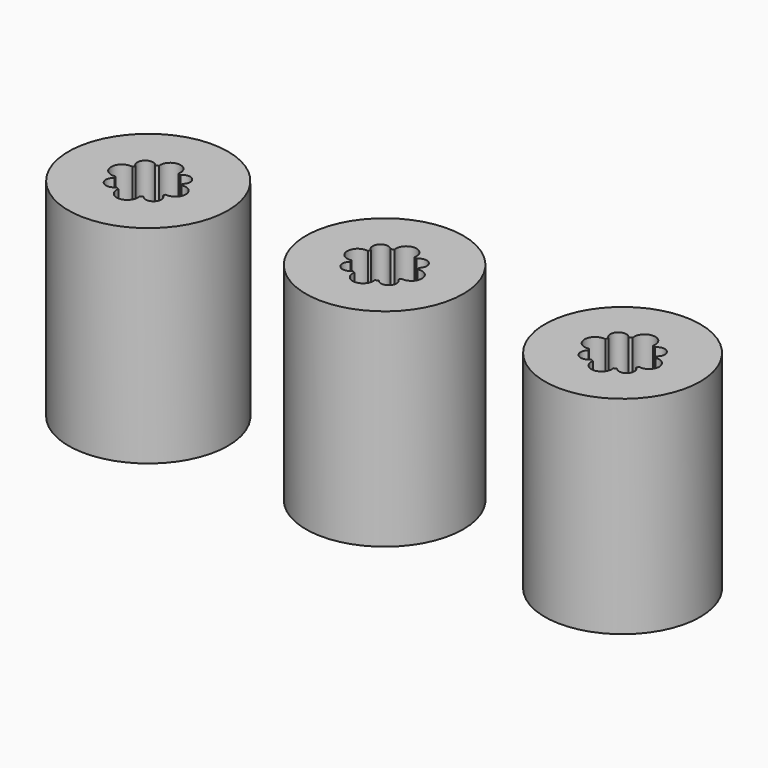
from build123d import *

# Parameters (mm, degrees)
F0_R     = 7.6
F0_R_2   = 7.5
F0_R_3   = 7.7
F1_DEPTH = 20


with BuildPart() as f1:
    # F0 (on Top) → F1 (new body)
    with BuildSketch(Plane.XY):
        Circle(F0_R)
        with BuildLine():
            ThreePointArc((2.299572, 1.213247), (2.356167, 1.099308), (2.40712, 0.982738))
            ThreePointArc((2.40712, 0.982738), (3.601487, 0), (2.40712, -0.982738))
            ThreePointArc((2.40712, -0.982738), (2.356167, -1.099308), (2.299572, -1.213247))
            ThreePointArc((2.299572, -1.213247), (2.393171, -2.346023), (1.258756, -2.27498))
            ThreePointArc((1.258756, -2.27498), (1.122092, -2.345402), (0.981503, -2.407624))
            ThreePointArc((0.981503, -2.407624), (0, -3.600179), (-0.981503, -2.407624))
            ThreePointArc((-0.981503, -2.407624), (-1.122092, -2.345402), (-1.258756, -2.27498))
            ThreePointArc((-1.258756, -2.27498), (-2.393171, -2.346023), (-2.299572, -1.213247))
            ThreePointArc((-2.299572, -1.213247), (-2.356167, -1.099308), (-2.40712, -0.982738))
            ThreePointArc((-2.40712, -0.982738), (-3.601487, 0), (-2.40712, 0.982738))
            ThreePointArc((-2.40712, 0.982738), (-2.356167, 1.099308), (-2.299572, 1.213247))
            ThreePointArc((-2.299572, 1.213247), (-2.393171, 2.346023), (-1.258756, 2.27498))
            ThreePointArc((-1.258756, 2.27498), (-1.122092, 2.345402), (-0.981503, 2.407624))
            ThreePointArc((-0.981503, 2.407624), (0, 3.600179), (0.981503, 2.407624))
            ThreePointArc((0.981503, 2.407624), (1.122092, 2.345402), (1.258756, 2.27498))
            ThreePointArc((1.258756, 2.27498), (2.393171, 2.346023), (2.299572, 1.213247))
        make_face(mode=Mode.SUBTRACT)
        with Locations((22.981999, -0.019552)):
            Circle(F0_R_2)
        with BuildLine():
            ThreePointArc((25.315564, 1.126953), (25.369864, 1.009088), (25.418215, 0.888661))
            ThreePointArc((25.418215, 0.888661), (26.558661, -0.095983), (25.377193, -1.031009))
            ThreePointArc((25.377193, -1.031009), (25.326325, -1.143888), (25.270142, -1.254218))
            ThreePointArc((25.270142, -1.254218), (25.35756, -2.352548), (24.25783, -2.285))
            ThreePointArc((24.25783, -2.285), (24.128881, -2.352931), (23.996329, -2.41353))
            ThreePointArc((23.996329, -2.41353), (23.055329, -3.601637), (22.066493, -2.453037))
            ThreePointArc((22.066493, -2.453037), (21.925849, -2.395377), (21.788815, -2.329598))
            ThreePointArc((21.788815, -2.329598), (20.663621, -2.433802), (20.722171, -1.305312))
            ThreePointArc((20.722171, -1.305312), (20.659994, -1.189293), (20.603769, -1.070277))
            ThreePointArc((20.603769, -1.070277), (19.365764, -0.100131), (20.559327, 0.924197))
            ThreePointArc((20.559327, 0.924197), (20.611761, 1.049081), (20.670628, 1.171065))
            ThreePointArc((20.670628, 1.171065), (20.570294, 2.34008), (21.741221, 2.265283))
            ThreePointArc((21.741221, 2.265283), (21.882641, 2.336592), (22.028141, 2.399158))
            ThreePointArc((22.028141, 2.399158), (23.05951, 3.60511), (24.038383, 2.35617))
            ThreePointArc((24.038383, 2.35617), (24.177338, 2.28938), (24.31209, 2.214471))
            ThreePointArc((24.31209, 2.214471), (25.442296, 2.250613), (25.315564, 1.126953))
        make_face(mode=Mode.SUBTRACT)
        with Locations((-22.455713, -0.443438)):
            Circle(F0_R_3)
        with BuildLine():
            ThreePointArc((-20.165257, 0.786934), (-20.111019, 0.680133), (-20.061757, 0.570948))
            ThreePointArc((-20.061757, 0.570948), (-18.873838, -0.369745), (-20.022061, -1.358502))
            ThreePointArc((-20.022061, -1.358502), (-20.067743, -1.471835), (-20.118699, -1.582896))
            ThreePointArc((-20.118699, -1.582896), (-19.989275, -2.714063), (-21.127264, -2.678438))
            ThreePointArc((-21.127264, -2.678438), (-21.258448, -2.751371), (-21.393622, -2.816613))
            ThreePointArc((-21.393622, -2.816613), (-22.368977, -4.067523), (-23.403058, -2.864705))
            ThreePointArc((-23.403058, -2.864705), (-23.548672, -2.802556), (-23.690233, -2.73166))
            ThreePointArc((-23.690233, -2.73166), (-24.862471, -2.809442), (-24.764682, -1.638704))
            ThreePointArc((-24.764682, -1.638704), (-24.82209, -1.52059), (-24.873461, -1.399728))
            ThreePointArc((-24.873461, -1.399728), (-26.083373, -0.365222), (-24.829997, 0.616173))
            ThreePointArc((-24.829997, 0.616173), (-24.77666, 0.7284), (-24.718022, 0.837951))
            ThreePointArc((-24.718022, 0.837951), (-24.776712, 1.979775), (-23.638475, 1.871961))
            ThreePointArc((-23.638475, 1.871961), (-23.504057, 1.935842), (-23.366205, 1.991928))
            ThreePointArc((-23.366205, 1.991928), (-22.373498, 3.139511), (-21.434474, 1.947602))
            ThreePointArc((-21.434474, 1.947602), (-21.302446, 1.886793), (-21.174023, 1.818701))
            ThreePointArc((-21.174023, 1.818701), (-20.075605, 1.88361), (-20.165257, 0.786934))
        make_face(mode=Mode.SUBTRACT)
    extrude(amount=F1_DEPTH)


solid = f1.part
